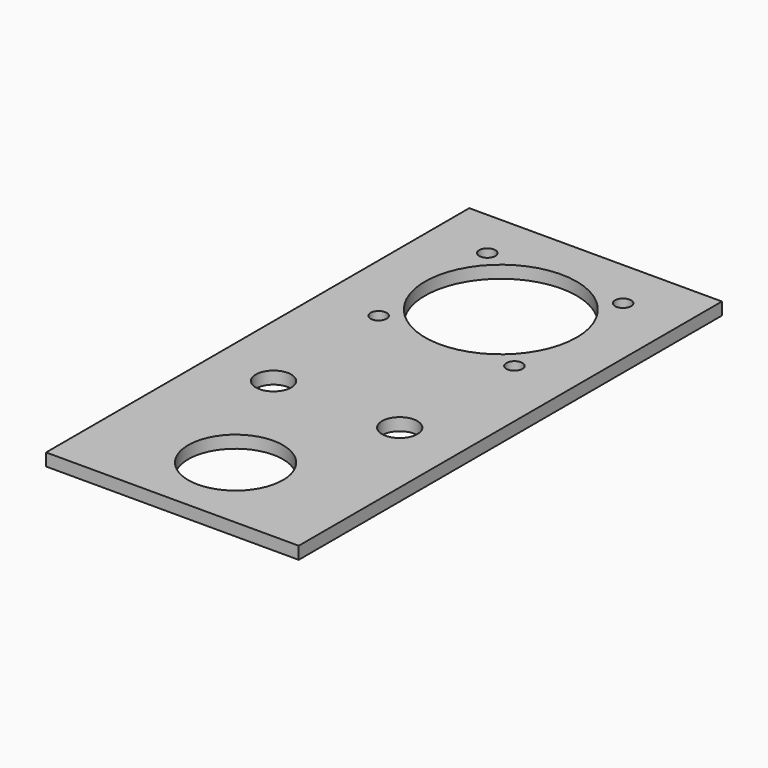
from build123d import *

# Parameters (mm, degrees)
SKETCH001_W   = 203.2
SKETCH001_H   = 425.45
SKETCH001_R   = 60.96
SKETCH001_R_2 = 38.1
SKETCH001_R_3 = 14.224
SKETCH001_R_4 = 6.477
PAD001_DEPTH  = 10.000005


with BuildPart() as part:
    # Sketch001 → Pad001 (new body)
    with BuildSketch(Plane.XY):
        Rectangle(SKETCH001_W, SKETCH001_H)
        with Locations((0, 117.475)):
            Circle(SKETCH001_R, mode=Mode.SUBTRACT)
        with Locations((0, -149.225)):
            Circle(SKETCH001_R_2, mode=Mode.SUBTRACT)
        with Locations((-50.735239, -47.625)):
            Circle(SKETCH001_R_3, mode=Mode.SUBTRACT)
        with Locations((50.735239, -47.625)):
            Circle(SKETCH001_R_3, mode=Mode.SUBTRACT)
        with Locations((54.61, 172.085)):
            Circle(SKETCH001_R_4, mode=Mode.SUBTRACT)
        with Locations((-54.61, 172.085)):
            Circle(SKETCH001_R_4, mode=Mode.SUBTRACT)
        with Locations((54.61, 62.865)):
            Circle(SKETCH001_R_4, mode=Mode.SUBTRACT)
        with Locations((-54.61, 62.865)):
            Circle(SKETCH001_R_4, mode=Mode.SUBTRACT)
    extrude(amount=PAD001_DEPTH)


solid = part.part
